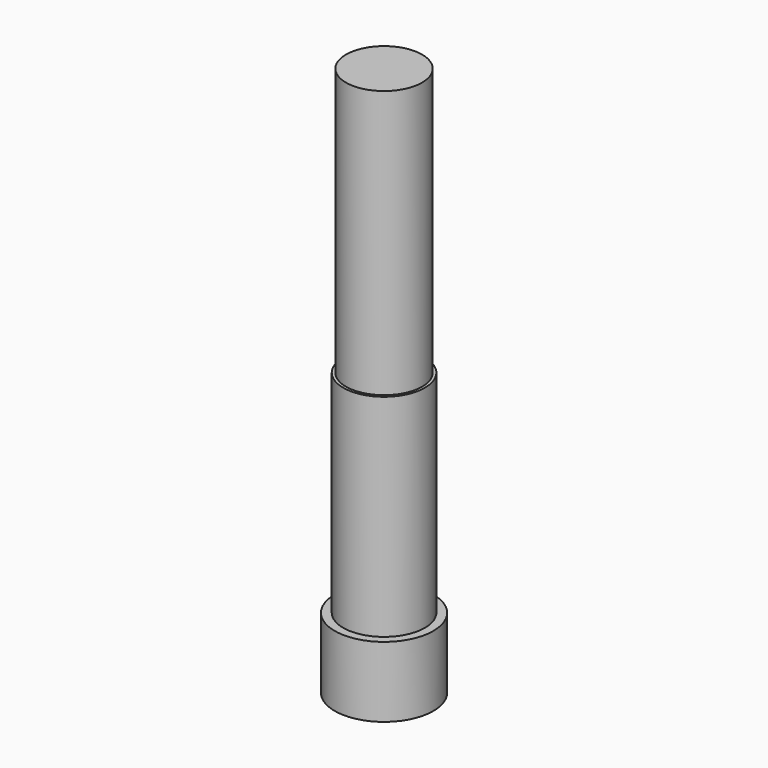
from build123d import *

# Parameters (mm, degrees)
F0_R     = 13.5
F1_DEPTH = 195
F2_R     = 17.5
F3_DEPTH = 25
F4_R     = 14.5
F5_DEPTH = 100


with BuildPart() as f1:
    # F0 (on Top) → F1 (new body)
    with BuildSketch(Plane.XY):
        Circle(F0_R)
    extrude(amount=F1_DEPTH)

    # F2 (on Top) → F3 (join)
    with BuildSketch(Plane.XY):
        Circle(F2_R)
    extrude(amount=F3_DEPTH)

    # F4 (on Top) → F5 (join)
    with BuildSketch(Plane.XY):
        Circle(F4_R)
    extrude(amount=F5_DEPTH)


solid = f1.part
